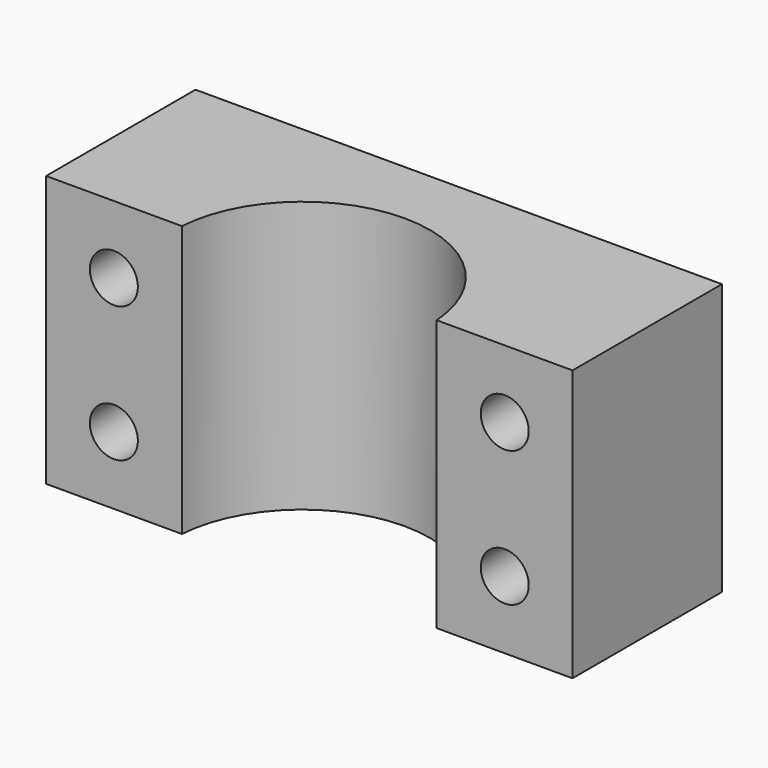
from build123d import *

# Parameters (mm, degrees)
PAD_DEPTH    = 25.4
SKETCH001_R  = 2.248154
POCKET_DEPTH = 17.5016


with BuildPart() as part:
    # Sketch → Pad (new body)
    with BuildSketch(Plane.XY):
        with BuildLine():
            ThreePointArc((11.935765, 0.8128), (0, 11.963408), (-11.935765, 0.8128))
            Line((-24.6634, 0.8128), (-11.935765, 0.8128))
            Line((-24.6634, 18.3134), (-24.6634, 0.8128))
            Line((-24.6634, 18.3134), (24.6634, 18.3134))
            Line((24.6634, 18.3134), (24.6634, 0.8128))
            Line((11.935765, 0.8128), (24.6634, 0.8128))
        make_face()
    extrude(amount=PAD_DEPTH)

    # Sketch001 → Pocket (cut, through all)
    with BuildSketch(Plane(origin=(0, 18.3134, 0), x_dir=(-1, 0, 0), z_dir=(0, 1, 0))):
        with Locations((18.3134, 6.35)):
            Circle(SKETCH001_R)
        with Locations((18.3134, 19.05)):
            Circle(SKETCH001_R)
        with Locations((-18.3134, 19.05)):
            Circle(SKETCH001_R)
        with Locations((-18.3134, 6.35)):
            Circle(SKETCH001_R)
    extrude(amount=-POCKET_DEPTH, mode=Mode.SUBTRACT)


solid = part.part
